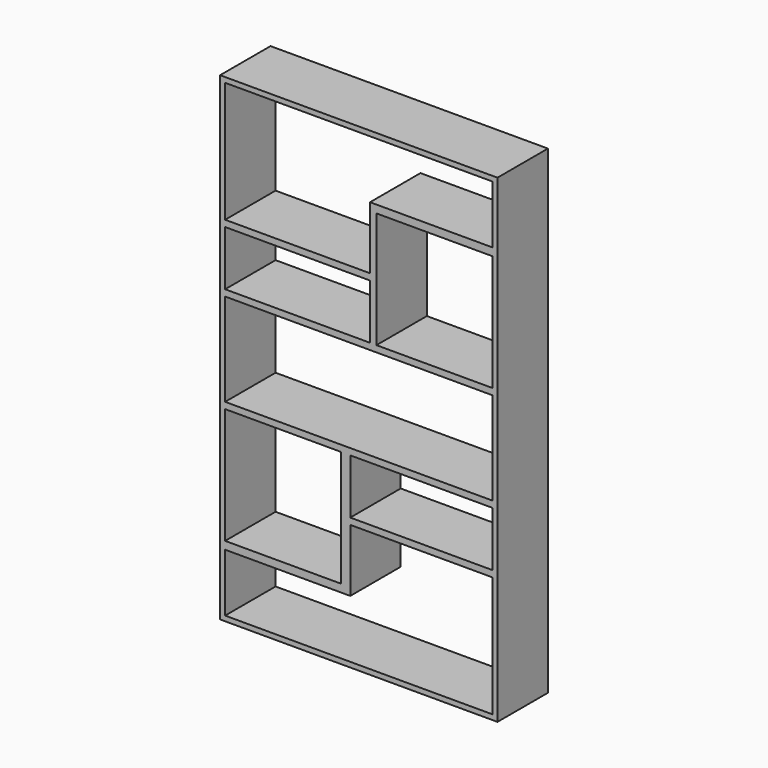
from build123d import *

# Parameters (mm, degrees)
F0_W     = 1100
F0_H     = 1900
F0_W_2   = 1060
F0_H_2   = 1860
F1_DEPTH = 250
F2_W     = 574.6
F2_H     = 25.400009
F2_W_2   = 563.8
F2_H_2   = 25.4
F3_DEPTH = 250


with BuildPart() as f1:
    # F0 (on Front) → F1 (new body)
    with BuildSketch(Plane.XZ):
        Rectangle(F0_W, F0_H)
        Rectangle(F0_W_2, F0_H_2, mode=Mode.SUBTRACT)
    extrude(amount=F1_DEPTH)

    # F2 (on face) → F3 (join, through all)
    with BuildSketch(Plane(origin=(0, 0, 0), x_dir=(-1, 0, 0), z_dir=(0, 1, 0))):
        Polygon((530, 426.500009), (530, 451.899991), (-44.6, 451.899991), (-44.6, 700), (-530, 700), (-530, 669.2), (-70, 669.2), (-70, 209.2), (-530, 209.2), (-530, 183.799991), (-44.6, 183.799991), (-44.6, 209.2), (-44.6, 426.500009), align=None)
        with Locations((242.7, 196.499996)):
            Rectangle(F2_W, F2_H)
        Polygon((-530, -426.5), (-530, -451.9), (33.8, -451.9), (33.8, -700), (530, -700), (530, -669.2), (70, -669.2), (70, -209.2), (530, -209.2), (530, -183.8), (33.8, -183.8), (33.8, -209.2), (33.8, -426.5), align=None)
        with Locations((-248.1, -196.5)):
            Rectangle(F2_W_2, F2_H_2)
    extrude(amount=-F3_DEPTH)


solid = f1.part
